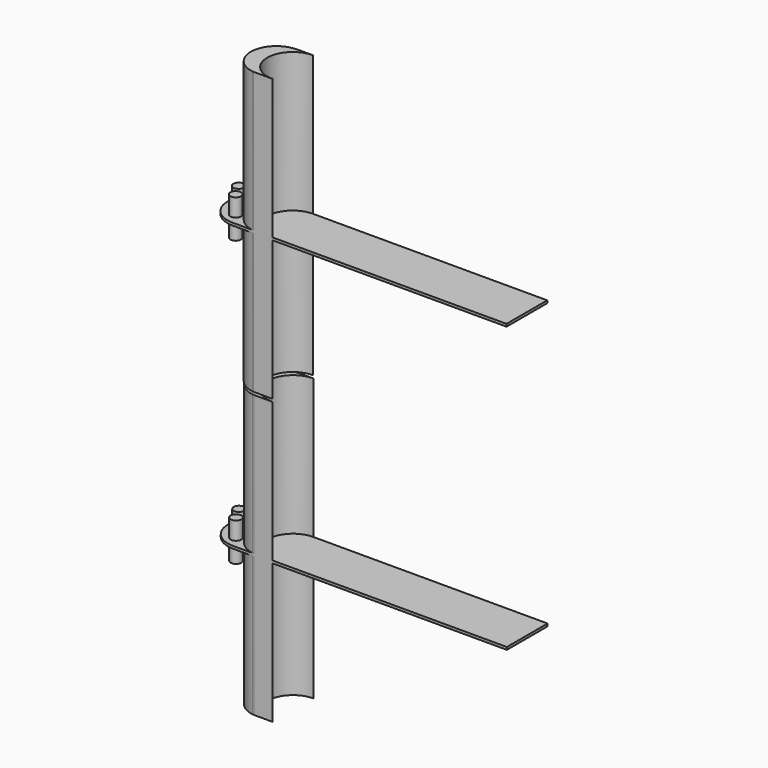
from build123d import *

# Parameters (mm, degrees)
F0_R     = 3.140979
F1_DEPTH = 0.75
F2_DEPTH = 83
F3_DEPTH = 11.25


with BuildPart() as f1:
    # F0 (on Top) → F1 (new body, symmetric)
    with BuildSketch(Plane.XY):
        with BuildLine():
            Line((-84.27328, 4.422647), (53.724373, 4.422647))
            Line((53.724373, 4.422647), (53.724373, 34.422647))
            Line((53.724373, 34.422647), (-84.27328, 34.422647))
            ThreePointArc((-84.27328, 34.422647), (-99.27328, 19.422647), (-84.27328, 4.422647))
        make_face()
        with BuildLine():
            Line((-95.393762, 4.422647), (-84.27328, 4.422647))
            ThreePointArc((-84.27328, 4.422647), (-99.27328, 19.422647), (-84.27328, 34.422647))
            Line((-84.27328, 34.422647), (-92.494443, 34.422647))
            Line((-92.494443, 34.422647), (-93.876795, 34.304933))
            ThreePointArc((-93.876795, 34.304933), (-108.835328, 20.419509), (-96.099783, 4.47057))
            Line((-96.099783, 4.47057), (-95.393762, 4.422647))
        make_face()
        with BuildLine():
            Line((-107.704197, 4.422647), (-95.393762, 4.422647))
            Line((-95.393762, 4.422647), (-96.099783, 4.47057))
            ThreePointArc((-96.099783, 4.47057), (-108.835328, 20.419509), (-93.876795, 34.304933))
            Line((-93.876795, 34.304933), (-92.494443, 34.422647))
            Line((-92.494443, 34.422647), (-107.704197, 34.422647))
            ThreePointArc((-107.704197, 34.422647), (-122.704197, 19.422647), (-107.704197, 4.422647))
        make_face()
        with Locations((-111.666009, 11.653589)):
            Circle(F0_R, mode=Mode.SUBTRACT)
        with Locations((-115.903668, 19.187219)):
            Circle(F0_R, mode=Mode.SUBTRACT)
        with Locations((-111.666001, 28.368834)):
            Circle(F0_R, mode=Mode.SUBTRACT)
    extrude(amount=F1_DEPTH, both=True)

    # F0 (on Top) → F2 (join, symmetric)
    with BuildSketch(Plane.XY):
        with BuildLine():
            Line((-95.393762, 4.422647), (-84.27328, 4.422647))
            ThreePointArc((-84.27328, 4.422647), (-99.27328, 19.422647), (-84.27328, 34.422647))
            Line((-84.27328, 34.422647), (-92.494443, 34.422647))
            Line((-92.494443, 34.422647), (-93.876795, 34.304933))
            ThreePointArc((-93.876795, 34.304933), (-108.835328, 20.419509), (-96.099783, 4.47057))
            Line((-96.099783, 4.47057), (-95.393762, 4.422647))
        make_face()
    extrude(amount=F2_DEPTH, both=True)

    # F0 (on Top) → F3 (join, symmetric)
    with BuildSketch(Plane.XY):
        with Locations((-111.666001, 28.368834)):
            Circle(F0_R)
        with Locations((-115.903668, 19.187219)):
            Circle(F0_R)
        with Locations((-111.666009, 11.653589)):
            Circle(F0_R)
    extrude(amount=F3_DEPTH, both=True)


with BuildPart() as f4_1:
    # F4: copy of F1
    add(f1.part.moved(Location((0, -0.25, 167.75))))


solid = Compound([f1.part, f4_1.part])
